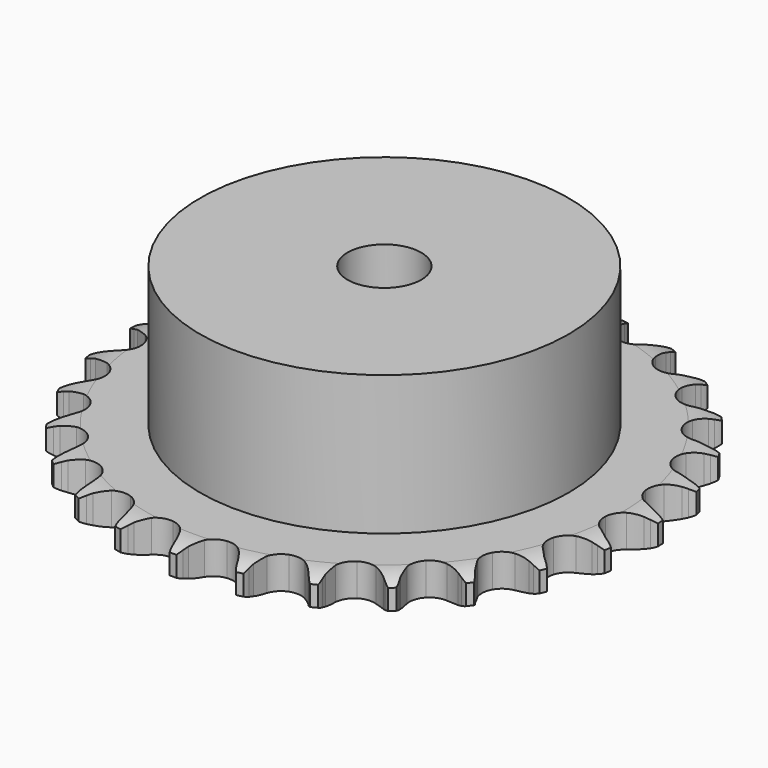
from build123d import *

# Parameters (mm, degrees)
PAD_DEPTH         = 5.3
SKETCH001_R       = 30
PAD001_DEPTH      = 28
SKETCH002_R       = 6
POCKET_DEPTH      = 0.001
POCKET_DEPTH_BACK = 28.001


with BuildPart() as part:
    # Sprocket → Pad (new body)
    with BuildSketch(Plane.XY):
        with BuildLine():
            ThreePointArc((-5.093235, 43.575406), (-4.465493, 42.777113), (-4.005642, 41.871645))
            Line((-4.005642, 41.871645), (-3.696414, 41.078363))
            ThreePointArc((-3.696414, 41.078363), (-3.203711, 40.034995), (-2.571218, 39.069943))
            ThreePointArc((-2.571218, 39.069943), (-1.435155, 38.130666), (0, 37.794201))
            ThreePointArc((0, 37.794201), (1.435155, 38.130666), (2.571218, 39.069943))
            ThreePointArc((2.571218, 39.069943), (3.203711, 40.034995), (3.696414, 41.078363))
            Line((3.696414, 41.078363), (4.005642, 41.871645))
            ThreePointArc((4.005642, 41.871645), (4.465493, 42.777113), (5.093235, 43.575406))
            ThreePointArc((5.093235, 43.575406), (5.519956, 42.653863), (5.758596, 41.666755))
            Line((5.758596, 41.666755), (5.876546, 40.823542))
            ThreePointArc((5.876546, 40.823542), (6.115351, 39.694673), (6.508239, 38.609771))
            ThreePointArc((6.508239, 38.609771), (7.397067, 37.433819), (8.715942, 36.775453))
            ThreePointArc((8.715942, 36.775453), (10.190007, 36.77188), (11.512059, 37.423844))
            Line((11.512059, 37.423844), (13.070099, 39.118639))
            ThreePointArc((13.070099, 39.118639), (13.303038, 39.475133), (13.553936, 39.819225))
            ThreePointArc((13.553936, 39.819225), (14.210206, 40.594237), (15.005126, 41.226245))
            ThreePointArc((15.005126, 41.226245), (15.207823, 40.231133), (15.212387, 39.215598))
            Line((15.212387, 39.215598), (15.1327, 38.367914))
            ThreePointArc((15.1327, 38.367914), (15.104732, 37.214401), (15.236834, 36.068137))
            ThreePointArc((15.236834, 36.068137), (15.83051, 34.718904), (16.962006, 33.774131))
            ThreePointArc((16.962006, 33.774131), (18.395513, 33.430712), (19.832282, 33.760216))
            Line((19.832282, 33.760216), (21.739172, 35.050019))
            ThreePointArc((21.739172, 35.050019), (22.048045, 35.343184), (22.371533, 35.62014))
            ThreePointArc((22.371533, 35.62014), (23.188843, 36.222915), (24.108087, 36.654566))
            ThreePointArc((24.108087, 36.654566), (24.075832, 35.639533), (23.846075, 34.650319))
            Line((23.846075, 34.650319), (23.573046, 33.843861))
            ThreePointArc((23.573046, 33.843861), (23.279814, 32.727891), (23.144008, 31.58206))
            ThreePointArc((23.144008, 31.58206), (23.410527, 30.132285), (24.293644, 28.952037))
            ThreePointArc((24.293644, 28.952037), (25.609312, 28.287285), (27.083342, 28.276566))
            Line((27.083342, 28.276566), (29.23628, 29.091843))
            ThreePointArc((29.23628, 29.091843), (29.604436, 29.305875), (29.983075, 29.500764))
            ThreePointArc((29.983075, 29.500764), (30.917364, 29.898806), (31.911375, 30.10683))
            ThreePointArc((31.911375, 30.10683), (31.645907, 29.126595), (31.194214, 28.217032))
            Line((31.194214, 28.217032), (30.742563, 27.495277))
            ThreePointArc((30.742563, 27.495277), (30.199875, 26.477012), (29.803482, 25.393385))
            ThreePointArc((29.803482, 25.393385), (29.728477, 23.921226), (30.315605, 22.569132))
            ThreePointArc((30.315605, 22.569132), (31.442507, 21.618884), (32.874332, 21.268519))
            Line((32.874332, 21.268519), (35.157253, 21.565318))
            ThreePointArc((35.157253, 21.565318), (35.564845, 21.688679), (35.978222, 21.790994))
            ThreePointArc((35.978222, 21.790994), (36.979121, 21.962845), (37.994313, 21.936027))
            ThreePointArc((37.994313, 21.936027), (37.509943, 21.043436), (36.860665, 20.262557))
            Line((36.860665, 20.262557), (36.25474, 19.664415))
            ThreePointArc((36.25474, 19.664415), (35.491852, 18.79875), (34.856243, 17.835747))
            ThreePointArc((34.856243, 17.835747), (34.443756, 16.420568), (34.703244, 14.969518))
            ThreePointArc((34.703244, 14.969518), (35.580628, 13.785003), (36.893058, 13.11388))
            Line((36.893058, 13.11388), (39.18289, 12.876202))
            ThreePointArc((39.18289, 12.876202), (39.607943, 12.90224), (40.033773, 12.906466))
            ThreePointArc((40.033773, 12.906466), (41.047325, 12.842862), (42.028967, 12.582647))
            ThreePointArc((42.028967, 12.582647), (41.351808, 11.825819), (40.539949, 11.215723))
            Line((40.539949, 11.215723), (39.812415, 10.77344))
            ThreePointArc((39.812415, 10.77344), (38.870455, 10.107043), (38.029895, 9.31658))
            ThreePointArc((38.029895, 9.31658), (37.302164, 8.034672), (37.220022, 6.562894))
            ThreePointArc((37.220022, 6.562894), (37.800588, 5.207969), (38.92287, 4.252269))
            Line((38.92287, 4.252269), (41.096166, 3.492926))
            ThreePointArc((41.096166, 3.492926), (41.515768, 3.420238), (41.931094, 3.326147))
            ThreePointArc((41.931094, 3.326147), (42.902657, 3.030516), (43.797829, 2.550933))
            ThreePointArc((43.797829, 2.550933), (42.964386, 1.97067), (42.033713, 1.564246))
            Line((42.033713, 1.564246), (41.223793, 1.301666))
            ThreePointArc((41.223793, 1.301666), (40.153541, 0.870463), (39.153346, 0.295153))
            ThreePointArc((39.153346, 0.295153), (38.149602, -0.784374), (37.730259, -2.197537))
            ThreePointArc((37.730259, -2.197537), (37.982708, -3.649828), (38.85434, -4.838583))
            Line((38.85434, -4.838583), (40.793938, -6.078654))
            ThreePointArc((40.793938, -6.078654), (41.185466, -6.24615), (41.567898, -6.433485))
            ThreePointArc((41.567898, -6.433485), (42.445095, -6.945206), (43.205538, -7.618302))
            ThreePointArc((43.205538, -7.618302), (42.260743, -7.990719), (41.261428, -8.17156))
            Line((41.261428, -8.17156), (40.412785, -8.240282))
            ThreePointArc((40.412785, -8.240282), (39.27194, -8.413045), (38.166029, -8.742186))
            ThreePointArc((38.166029, -8.742186), (36.940386, -9.561135), (36.206448, -10.839499))
            ThreePointArc((36.206448, -10.839499), (36.117171, -12.310862), (36.691162, -13.668586))
            Line((36.691162, -13.668586), (38.292498, -15.322533))
            ThreePointArc((38.292498, -15.322533), (38.634845, -15.575806), (38.963766, -15.846287))
            ThreePointArc((38.963766, -15.846287), (39.699308, -16.546509), (40.284026, -17.376833))
            ThreePointArc((40.284026, -17.376833), (39.278812, -17.521326), (38.26473, -17.466835))
            Line((38.26473, -17.466835), (37.423113, -17.337993))
            ThreePointArc((37.423113, -17.337993), (36.273178, -17.243003), (35.121172, -17.308231))
            ThreePointArc((35.121172, -17.308231), (33.739703, -17.822453), (32.730738, -18.8971))
            ThreePointArc((32.730738, -18.8971), (32.304548, -20.308214), (32.549954, -21.761711))
            Line((32.549954, -21.761711), (33.726699, -23.74037))
            ThreePointArc((33.726699, -23.74037), (34.00141, -24.065767), (34.259087, -24.404811))
            ThreePointArc((34.259087, -24.404811), (34.81332, -25.255786), (35.190792, -26.198574))
            ThreePointArc((35.190792, -26.198574), (34.179351, -26.107354), (33.20517, -25.820468))
            Line((33.20517, -25.820468), (32.415952, -25.501009))
            ThreePointArc((32.415952, -25.501009), (31.31892, -25.143386), (30.182923, -24.941185))
            ThreePointArc((30.182923, -24.941185), (28.720105, -25.122957), (27.490505, -25.935954))
            ThreePointArc((27.490505, -25.935954), (26.750379, -27.210745), (26.65397, -28.681658))
            Line((26.65397, -28.681658), (27.342686, -30.878357))
            ThreePointArc((27.342686, -30.878357), (27.534949, -31.258335), (27.707493, -31.647665))
            ThreePointArc((27.707493, -31.647665), (28.050537, -32.603517), (28.200412, -33.607943))
            ThreePointArc((28.200412, -33.607943), (27.237272, -33.285928), (26.355511, -32.782113))
            Line((26.355511, -32.782113), (25.661238, -32.289259))
            ThreePointArc((25.661238, -32.289259), (24.676251, -31.688283), (23.617505, -31.229554))
            ThreePointArc((23.617505, -31.229554), (22.152198, -31.069076), (20.768253, -31.576594))
            ThreePointArc((20.768253, -31.576594), (19.754089, -32.646338), (19.321063, -34.055368))
            Line((19.321063, -34.055368), (19.484621, -36.351684))
            ThreePointArc((19.484621, -36.351684), (19.584073, -36.765759), (19.66218, -37.184386))
            ThreePointArc((19.66218, -37.184386), (19.775543, -38.193584), (19.689742, -39.205499))
            ThreePointArc((19.689742, -39.205499), (18.826825, -38.670049), (18.085019, -37.976466))
            Line((18.085019, -37.976466), (17.52312, -37.336787))
            ThreePointArc((17.52312, -37.336787), (16.703278, -36.524856), (15.778862, -35.834329))
            ThreePointArc((15.778862, -35.834329), (14.390061, -35.340254), (12.926378, -35.514931))
            ThreePointArc((12.926378, -35.514931), (11.692851, -36.321958), (10.946553, -37.593145))
            Line((10.946553, -37.593145), (10.576135, -39.865283))
            ThreePointArc((10.576135, -39.865283), (10.577414, -40.291132), (10.556873, -40.716487))
            ThreePointArc((10.556873, -40.716487), (10.434444, -41.724625), (10.117592, -42.689477))
            ThreePointArc((10.117592, -42.689477), (9.401418, -41.969457), (8.839559, -41.123498))
            Line((8.839559, -41.123498), (8.440327, -40.371479))
            ThreePointArc((8.440327, -40.371479), (7.829828, -39.392365), (7.089576, -38.507266))
            ThreePointArc((7.089576, -38.507266), (5.852151, -37.706229), (4.387639, -37.53865))
            ThreePointArc((4.387639, -37.53865), (3.001249, -38.039452), (1.981911, -39.104266))
            Line((1.981911, -39.104266), (1.097487, -41.229734))
            ThreePointArc((1.097487, -41.229734), (1.000524, -41.644399), (0.882444, -42.053551))
            ThreePointArc((0.882444, -42.053551), (0.530821, -43.006281), (0, -43.872053))
            ThreePointArc((0, -43.872053), (-0.530821, -43.006281), (-0.882444, -42.053551))
            Line((-0.882444, -42.053551), (-1.097487, -41.229734))
            ThreePointArc((-1.097487, -41.229734), (-1.465731, -40.136221), (-1.981911, -39.104266))
            ThreePointArc((-1.981911, -39.104266), (-3.001249, -38.039452), (-4.387639, -37.53865))
            ThreePointArc((-4.387639, -37.53865), (-5.852151, -37.706229), (-7.089576, -38.507266))
            Line((-7.089576, -38.507266), (-8.440327, -40.371479))
            ThreePointArc((-8.440327, -40.371479), (-8.630304, -40.752605), (-8.839559, -41.123498))
            ThreePointArc((-8.839559, -41.123498), (-9.401418, -41.969457), (-10.117592, -42.689477))
            ThreePointArc((-10.117592, -42.689477), (-10.434444, -41.724625), (-10.556873, -40.716487))
            Line((-10.556873, -40.716487), (-10.576135, -39.865283))
            ThreePointArc((-10.576135, -39.865283), (-10.682271, -38.716323), (-10.946553, -37.593145))
            ThreePointArc((-10.946553, -37.593145), (-11.692851, -36.321958), (-12.926378, -35.514931))
            ThreePointArc((-12.926378, -35.514931), (-14.390061, -35.340254), (-15.778862, -35.834329))
            Line((-15.778862, -35.834329), (-17.52312, -37.336787))
            ThreePointArc((-17.52312, -37.336787), (-17.795871, -37.663828), (-18.085019, -37.976466))
            ThreePointArc((-18.085019, -37.976466), (-18.826825, -38.670049), (-19.689742, -39.205499))
            ThreePointArc((-19.689742, -39.205499), (-19.775543, -38.193584), (-19.66218, -37.184386))
            Line((-19.66218, -37.184386), (-19.484621, -36.351684))
            ThreePointArc((-19.484621, -36.351684), (-19.322928, -35.209218), (-19.321063, -34.055368))
            ThreePointArc((-19.321063, -34.055368), (-19.754089, -32.646338), (-20.768253, -31.576594))
            ThreePointArc((-20.768253, -31.576594), (-22.152198, -31.069076), (-23.617505, -31.229554))
            Line((-23.617505, -31.229554), (-25.661238, -32.289259))
            ThreePointArc((-25.661238, -32.289259), (-26.002057, -32.544585), (-26.355511, -32.782113))
            ThreePointArc((-26.355511, -32.782113), (-27.237272, -33.285928), (-28.200412, -33.607943))
            ThreePointArc((-28.200412, -33.607943), (-28.050537, -32.603517), (-27.707493, -31.647665))
            Line((-27.707493, -31.647665), (-27.342686, -30.878357))
            ThreePointArc((-27.342686, -30.878357), (-26.92188, -29.803975), (-26.65397, -28.681658))
            ThreePointArc((-26.65397, -28.681658), (-26.750379, -27.210745), (-27.490505, -25.935954))
            ThreePointArc((-27.490505, -25.935954), (-28.720105, -25.122957), (-30.182923, -24.941185))
            Line((-30.182923, -24.941185), (-32.415952, -25.501009))
            ThreePointArc((-32.415952, -25.501009), (-32.806466, -25.670854), (-33.20517, -25.820468))
            ThreePointArc((-33.20517, -25.820468), (-34.179351, -26.107354), (-35.190792, -26.198574))
            ThreePointArc((-35.190792, -26.198574), (-34.81332, -25.255786), (-34.259087, -24.404811))
            Line((-34.259087, -24.404811), (-33.726699, -23.74037))
            ThreePointArc((-33.726699, -23.74037), (-33.069467, -22.791993), (-32.549954, -21.761711))
            ThreePointArc((-32.549954, -21.761711), (-32.304548, -20.308214), (-32.730738, -18.8971))
            ThreePointArc((-32.730738, -18.8971), (-33.739703, -17.822453), (-35.121172, -17.308231))
            Line((-35.121172, -17.308231), (-37.423113, -17.337993))
            ThreePointArc((-37.423113, -17.337993), (-37.84227, -17.413201), (-38.26473, -17.466835))
            ThreePointArc((-38.26473, -17.466835), (-39.278812, -17.521326), (-40.284026, -17.376833))
            ThreePointArc((-40.284026, -17.376833), (-39.699308, -16.546509), (-38.963766, -15.846287))
            Line((-38.963766, -15.846287), (-38.292498, -15.322533))
            ThreePointArc((-38.292498, -15.322533), (-37.434271, -14.551287), (-36.691162, -13.668586))
            ThreePointArc((-36.691162, -13.668586), (-36.117171, -12.310862), (-36.206448, -10.839499))
            ThreePointArc((-36.206448, -10.839499), (-36.940386, -9.561135), (-38.166029, -8.742186))
            Line((-38.166029, -8.742186), (-40.412785, -8.240282))
            ThreePointArc((-40.412785, -8.240282), (-40.837987, -8.216798), (-41.261428, -8.17156))
            ThreePointArc((-41.261428, -8.17156), (-42.260743, -7.990719), (-43.205538, -7.618302))
            ThreePointArc((-43.205538, -7.618302), (-42.445095, -6.945206), (-41.567898, -6.433485))
            Line((-41.567898, -6.433485), (-40.793938, -6.078654))
            ThreePointArc((-40.793938, -6.078654), (-39.780983, -5.526119), (-38.85434, -4.838583))
            ThreePointArc((-38.85434, -4.838583), (-37.982708, -3.649828), (-37.730259, -2.197537))
            ThreePointArc((-37.730259, -2.197537), (-38.149602, -0.784374), (-39.153346, 0.295153))
            Line((-39.153346, 0.295153), (-41.223793, 1.301666))
            ThreePointArc((-41.223793, 1.301666), (-41.632118, 1.422575), (-42.033713, 1.564246))
            ThreePointArc((-42.033713, 1.564246), (-42.964386, 1.97067), (-43.797829, 2.550933))
            ThreePointArc((-43.797829, 2.550933), (-42.902657, 3.030516), (-41.931094, 3.326147))
            Line((-41.931094, 3.326147), (-41.096166, 3.492926))
            ThreePointArc((-41.096166, 3.492926), (-39.983092, 3.796965), (-38.92287, 4.252269))
            ThreePointArc((-38.92287, 4.252269), (-37.800588, 5.207969), (-37.220022, 6.562894))
            ThreePointArc((-37.220022, 6.562894), (-37.302164, 8.034672), (-38.029895, 9.31658))
            Line((-38.029895, 9.31658), (-39.812415, 10.77344))
            ThreePointArc((-39.812415, 10.77344), (-40.181851, 10.985256), (-40.539949, 11.215723))
            ThreePointArc((-40.539949, 11.215723), (-41.351808, 11.825819), (-42.028967, 12.582647))
            ThreePointArc((-42.028967, 12.582647), (-41.047325, 12.842862), (-40.033773, 12.906466))
            Line((-40.033773, 12.906466), (-39.18289, 12.876202))
            ThreePointArc((-39.18289, 12.876202), (-38.029702, 12.915353), (-36.893058, 13.11388))
            ThreePointArc((-36.893058, 13.11388), (-35.580628, 13.785003), (-34.703244, 14.969518))
            ThreePointArc((-34.703244, 14.969518), (-34.443756, 16.420568), (-34.856243, 17.835747))
            Line((-34.856243, 17.835747), (-36.25474, 19.664415))
            ThreePointArc((-36.25474, 19.664415), (-36.565369, 19.95572), (-36.860665, 20.262557))
            ThreePointArc((-36.860665, 20.262557), (-37.509943, 21.043436), (-37.994313, 21.936027))
            ThreePointArc((-37.994313, 21.936027), (-36.979121, 21.962845), (-35.978222, 21.790994))
            Line((-35.978222, 21.790994), (-35.157253, 21.565318))
            ThreePointArc((-35.157253, 21.565318), (-34.026122, 21.33747), (-32.874332, 21.268519))
            ThreePointArc((-32.874332, 21.268519), (-31.442507, 21.618884), (-30.315605, 22.569132))
            ThreePointArc((-30.315605, 22.569132), (-29.728477, 23.921226), (-29.803482, 25.393385))
            Line((-29.803482, 25.393385), (-30.742563, 27.495277))
            ThreePointArc((-30.742563, 27.495277), (-30.977639, 27.850365), (-31.194214, 28.217032))
            ThreePointArc((-31.194214, 28.217032), (-31.645907, 29.126595), (-31.911375, 30.10683))
            ThreePointArc((-31.911375, 30.10683), (-30.917364, 29.898806), (-29.983075, 29.500764))
            Line((-29.983075, 29.500764), (-29.23628, 29.091843))
            ThreePointArc((-29.23628, 29.091843), (-28.188184, 28.60928), (-27.083342, 28.276566))
            ThreePointArc((-27.083342, 28.276566), (-25.609312, 28.287285), (-24.293644, 28.952037))
            ThreePointArc((-24.293644, 28.952037), (-23.410527, 30.132285), (-23.144008, 31.58206))
            Line((-23.144008, 31.58206), (-23.573046, 33.843861))
            ThreePointArc((-23.573046, 33.843861), (-23.719897, 34.24359), (-23.846075, 34.650319))
            ThreePointArc((-23.846075, 34.650319), (-24.075832, 35.639533), (-24.108087, 36.654566))
            ThreePointArc((-24.108087, 36.654566), (-23.188843, 36.222915), (-22.371533, 35.62014))
            Line((-22.371533, 35.62014), (-21.739172, 35.050019))
            ThreePointArc((-21.739172, 35.050019), (-20.830614, 34.338756), (-19.832282, 33.760216))
            ThreePointArc((-19.832282, 33.760216), (-18.395513, 33.430712), (-16.962006, 33.774131))
            ThreePointArc((-16.962006, 33.774131), (-15.83051, 34.718904), (-15.236834, 36.068137))
            Line((-15.236834, 36.068137), (-15.1327, 38.367914))
            ThreePointArc((-15.1327, 38.367914), (-15.183408, 38.790735), (-15.212387, 39.215598))
            ThreePointArc((-15.212387, 39.215598), (-15.207823, 40.231133), (-15.005126, 41.226245))
            ThreePointArc((-15.005126, 41.226245), (-14.210206, 40.594237), (-13.553936, 39.819225))
            Line((-13.553936, 39.819225), (-13.070099, 39.118639))
            ThreePointArc((-13.070099, 39.118639), (-12.35006, 38.21702), (-11.512059, 37.423844))
            ThreePointArc((-11.512059, 37.423844), (-10.190007, 36.77188), (-8.715942, 36.775453))
            ThreePointArc((-8.715942, 36.775453), (-7.397067, 37.433819), (-6.508239, 38.609771))
            Line((-6.508239, 38.609771), (-5.876546, 40.823542))
            ThreePointArc((-5.876546, 40.823542), (-5.828379, 41.24666), (-5.758596, 41.666755))
            ThreePointArc((-5.758596, 41.666755), (-5.519956, 42.653863), (-5.093235, 43.575406))
        make_face()
    extrude(amount=PAD_DEPTH)

    # Sketch → Groove (revolve, cut)
    with BuildSketch(Plane.XZ):
        with BuildLine():
            Line((38.641101, 0), (43, 0))
            Line((47.358899, 0), (43, 0))
            Line((47.358899, 5.3), (47.358899, 0))
            Line((43, 5.3), (47.358899, 5.3))
            Line((38.641101, 5.3), (43, 5.3))
            ThreePointArc((43, 4.3), (40.877169, 5.046794), (38.641101, 5.3))
            Line((43, 1), (43, 4.3))
            ThreePointArc((38.641101, 0), (40.877169, 0.253206), (43, 1))
        make_face()
    revolve(axis=Axis((0, 0, 0), (0, 0, 1)), mode=Mode.SUBTRACT)

    # Sketch001 → Pad001 (join)
    with BuildSketch(Plane.XY):
        Circle(SKETCH001_R)
    extrude(amount=PAD001_DEPTH)

    # Sketch002 → Pocket (cut, two sides)
    with BuildSketch(Plane.XY) as pocket_sk:
        Circle(SKETCH002_R)
    extrude(amount=-POCKET_DEPTH, mode=Mode.SUBTRACT)
    extrude(pocket_sk.sketch, amount=POCKET_DEPTH_BACK, mode=Mode.SUBTRACT)


solid = part.part
